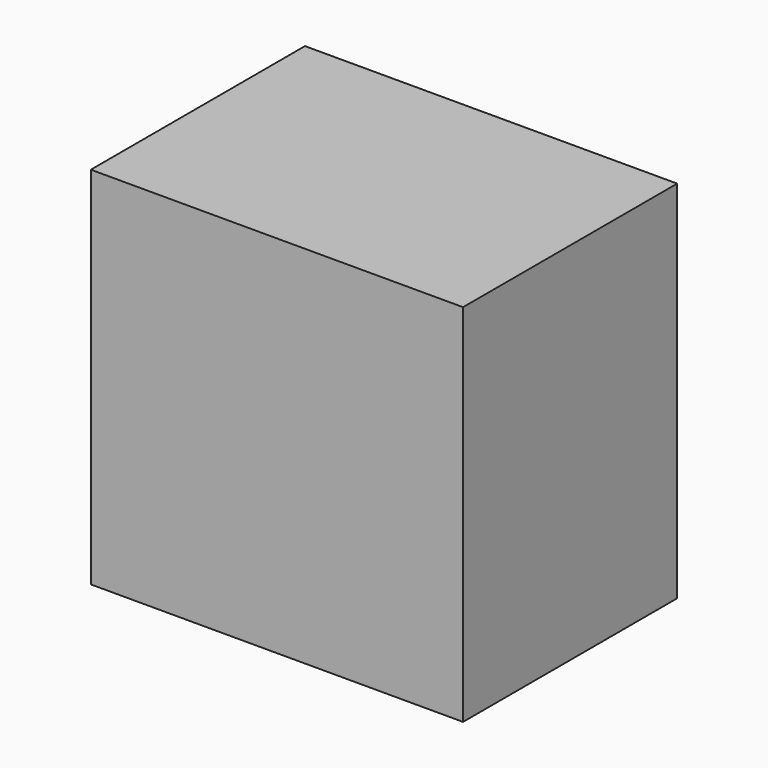
from build123d import *

# Parameters (mm, degrees)
F0_W     = 103.576362
F0_H     = 74.477992
F1_DEPTH = 50.8


with BuildPart() as f1:
    # F0 (on Top) → F1 (new body, symmetric)
    with BuildSketch(Plane.XY):
        Rectangle(F0_W, F0_H)
    extrude(amount=F1_DEPTH, both=True)

    # F2 (on Front) → F3 (revolve, cut)
    with BuildSketch(Plane.XZ):
        with BuildLine():
            Line((0, 36.527779), (0, 0))
            Line((0, 0), (23.194447, 0))
            Line((23.194447, 0), (23.194447, 21.415701))
            Line((23.194447, 21.415701), (14.71706, 21.415701))
            ThreePointArc((14.71706, 21.415701), (10.547117, 32.07698), (0, 36.527779))
        make_face()
    revolve(axis=Axis((0, 0, 18.263889), (0, 0, 1)), mode=Mode.SUBTRACT)


solid = f1.part
